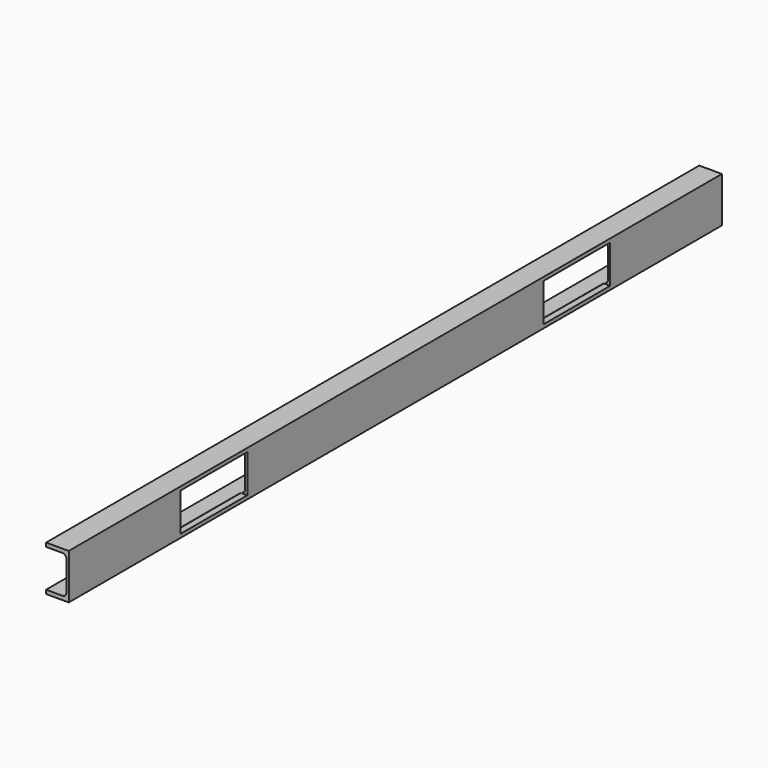
from build123d import *

# Parameters (mm, degrees)
F1_DEPTH = 1800
F2_W     = 184
F2_H     = 84
F3_DEPTH = 14


with BuildPart() as f1:
    # F0 (on Front) → F1 (new body)
    with BuildSketch(Plane.XZ):
        with BuildLine():
            Line((0, 50), (-50, 50))
            Line((-50, 50), (-50, 41.5))
            Line((-50, 41.5), (-14, 41.5))
            ThreePointArc((-14, 41.5), (-7.636039, 38.863961), (-5, 32.5))
            Line((-5, 32.5), (-5, -32.5))
            ThreePointArc((-5, -32.5), (-7.636039, -38.863961), (-14, -41.5))
            Line((-14, -41.5), (-50, -41.5))
            Line((-50, -41.5), (-50, -50))
            Line((-50, -50), (0, -50))
            Line((0, -50), (0, 50))
        make_face()
    extrude(amount=F1_DEPTH)

    # F2 (on Right) → F3 (cut)
    with BuildSketch(Plane.YZ):
        Polygon((-308, 0), (-308, 42), (-461.919742, 42), (-492, 42), (-492, -42), (-308, -42), align=None)
        with Locations((-1400, 0)):
            Rectangle(F2_W, F2_H)
    extrude(amount=-F3_DEPTH, mode=Mode.SUBTRACT)


solid = f1.part
